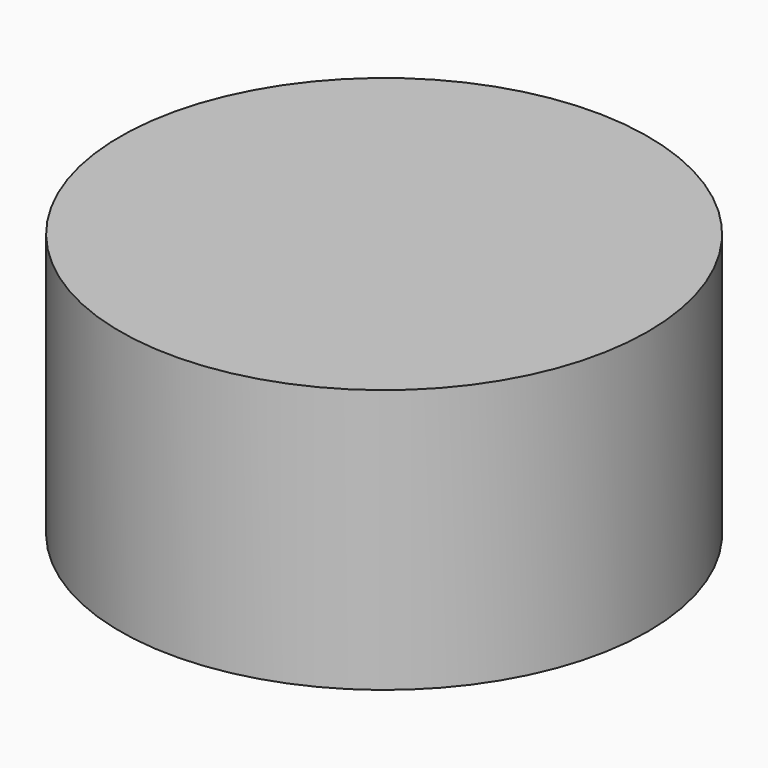
from build123d import *

# Parameters (mm, degrees)
F0_W     = 3.81
F0_H     = 19.05
F3_DEPTH = 6.35


with BuildPart() as f1:
    # F0 (on Front) → F1 (revolve)
    with BuildSketch(Plane.XZ):
        Polygon((0, 19.05), (0, 0), (3.81, 0), (28.575, 0), (28.575, -19.05), (38.1, -19.05), (38.1, 19.05), align=None)
        with Locations((1.905, -9.525)):
            Rectangle(F0_W, F0_H)
    revolve(axis=Axis((0, 0, 9.525), (0, 0, -1)))

    # F2 (on face) → F3 (join)
    with BuildSketch(Plane(origin=(0, 0, 0), x_dir=(1, 0, 0), z_dir=(0, 0, -1))):
        with BuildLine():
            Line((-6.7130909488, 21.7874145991), (-5.5522246622, 28.030401822))
            ThreePointArc((-5.5522246622, 28.030401822), (-14.2875, 24.7466759131), (-21.498927725, 18.823568516))
            Line((-21.498927725, 18.823568516), (-15.5119090512, 16.7074145991))
            Line((-15.5119090512, 16.7074145991), (-11.1125, 19.2474145991))
            Line((-11.1125, 19.2474145991), (-6.7130909488, 21.7874145991))
        make_face()
        with BuildLine():
            Line((22.225, 0), (28.575, 0))
            ThreePointArc((28.575, 0), (28.1914641733, 4.6660446599), (27.0511523872, 9.206833306))
            Line((27.0511523872, 9.206833306), (22.225, 5.08))
            Line((22.225, 5.08), (22.225, 0))
        make_face()
        with BuildLine():
            ThreePointArc((27.0511523872, -9.206833306), (28.1914641733, -4.6660446599), (28.575, 0))
            Line((28.575, 0), (22.225, 0))
            Line((22.225, 0), (22.225, -5.08))
            Line((22.225, -5.08), (27.0511523872, -9.206833306))
        make_face()
        with BuildLine():
            ThreePointArc((-21.498927725, -18.823568516), (-14.2875, -24.7466759131), (-5.5522246622, -28.030401822))
            Line((-5.5522246622, -28.030401822), (-6.7130909488, -21.7874145991))
            Line((-6.7130909488, -21.7874145991), (-11.1125, -19.2474145991))
            Line((-11.1125, -19.2474145991), (-15.5119090512, -16.7074145991))
            Line((-15.5119090512, -16.7074145991), (-21.498927725, -18.823568516))
        make_face()
    extrude(amount=F3_DEPTH)


solid = f1.part
